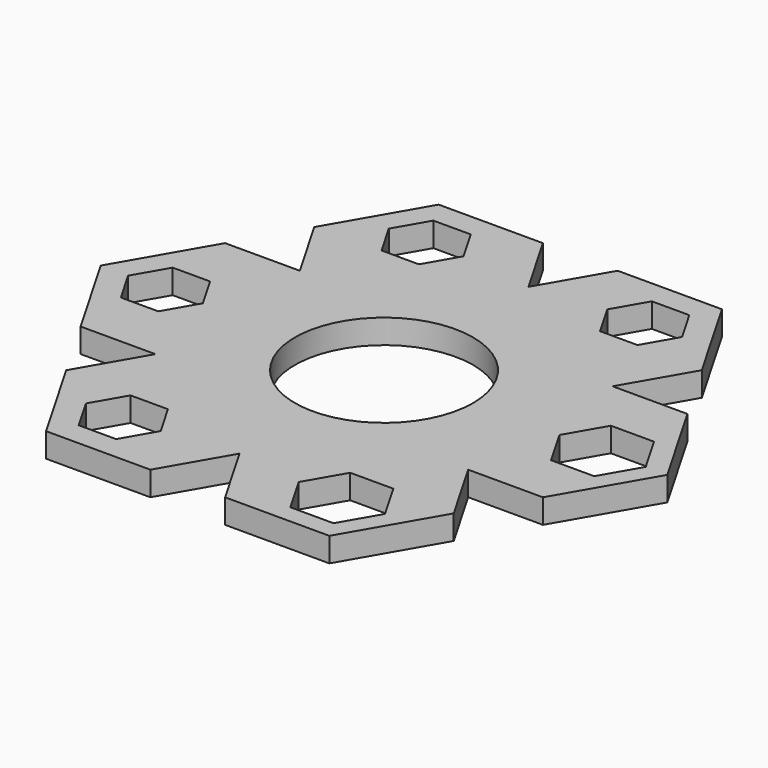
from build123d import *

# Parameters (mm, degrees)
F0_R     = 11
F1_DEPTH = 3


with BuildPart() as f1:
    # F0 (on Top) → F1 (new body)
    with BuildSketch(Plane.XY):
        Polygon((4.618802, -30.310889), (17.5, -30.310889), (23.940599, -19.155445), (19.321797, -11.155445), (28.559401, -11.155445), (35, 0), (28.559401, 11.155445), (19.321797, 11.155445), (23.940599, 19.155445), (17.5, 30.310889), (4.618802, 30.310889), (0, 22.310889), (-4.618802, 30.310889), (-17.5, 30.310889), (-23.940599, 19.155445), (-19.321797, 11.155445), (-28.559401, 11.155445), (-35, 0), (-28.559401, -11.155445), (-19.321797, -11.155445), (-23.940599, -19.155445), (-17.5, -30.310889), (-4.618802, -30.310889), (0, -22.310889), align=None)
        Polygon((-11.190599, -19.382686), (-8.881198, -23.382686), (-11.190599, -27.382686), (-15.809401, -27.382686), (-18.118802, -23.382686), (-15.809401, -19.382686), align=None, mode=Mode.SUBTRACT)
        Polygon((-29.309401, -4), (-31.618802, 0), (-29.309401, 4), (-24.690599, 4), (-22.381198, 0), (-24.690599, -4), align=None, mode=Mode.SUBTRACT)
        Polygon((10.833333, -18.763884), (16.166667, -18.763884), (18.833333, -23.382686), (16.166667, -28.001488), (10.833333, -28.001488), (8.166667, -23.382686), align=None, mode=Mode.SUBTRACT)
        Circle(F0_R, mode=Mode.SUBTRACT)
        Polygon((-15.809401, 19.382686), (-18.118802, 23.382686), (-15.809401, 27.382686), (-11.190599, 27.382686), (-8.881198, 23.382686), (-11.190599, 19.382686), align=None, mode=Mode.SUBTRACT)
        Polygon((29.666667, 4.618802), (32.333333, 0), (29.666667, -4.618802), (24.333333, -4.618802), (21.666667, 0), (24.333333, 4.618802), align=None, mode=Mode.SUBTRACT)
        Polygon((18.118802, 23.382686), (15.809401, 19.382686), (11.190599, 19.382686), (8.881198, 23.382686), (11.190599, 27.382686), (15.809401, 27.382686), align=None, mode=Mode.SUBTRACT)
    extrude(amount=F1_DEPTH)


solid = f1.part
